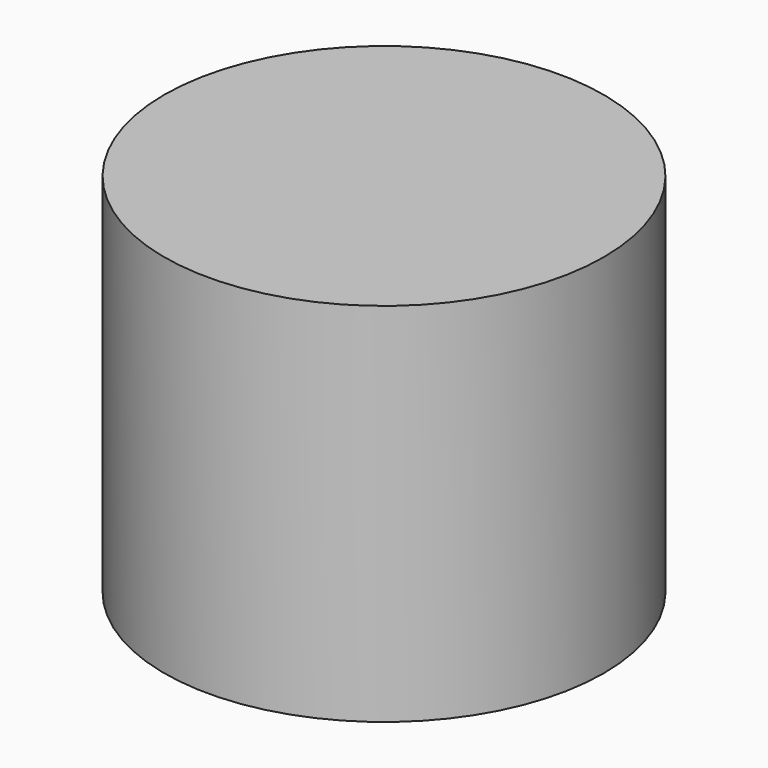
from build123d import *

# Parameters (mm, degrees)
F0_R     = 15
F0_R_2   = 10
F1_DEPTH = 25
F2_DEPTH = 20


with BuildPart() as f1:
    # F0 (on Top) → F1 (new body)
    with BuildSketch(Plane.XY):
        Circle(F0_R)
        Circle(F0_R_2, mode=Mode.SUBTRACT)
        Circle(F0_R_2)
    extrude(amount=F1_DEPTH)

    # F0 (on Top) → F2 (cut)
    with BuildSketch(Plane.XY):
        Circle(F0_R_2)
    extrude(amount=F2_DEPTH, mode=Mode.SUBTRACT)


solid = f1.part
